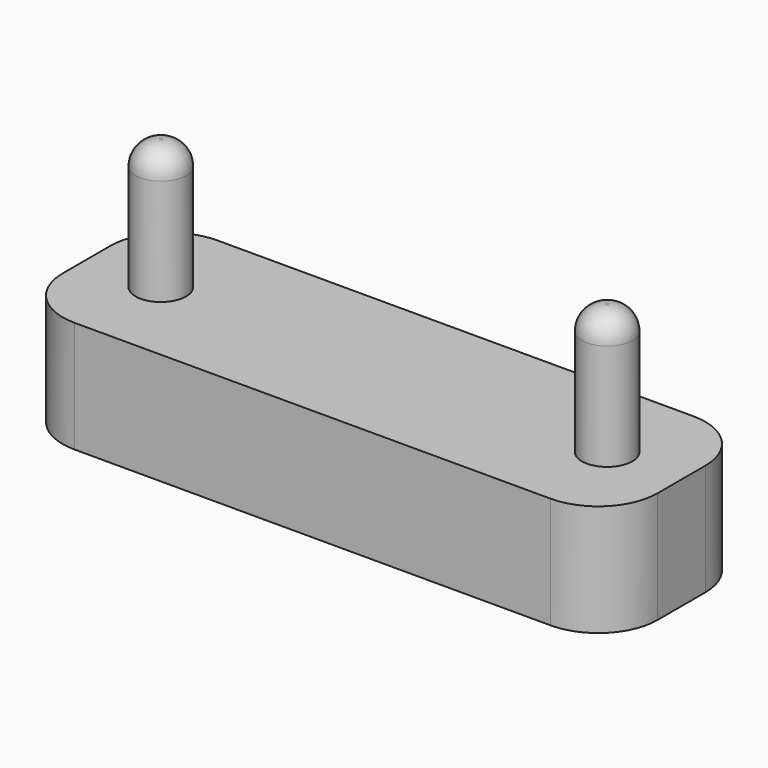
from build123d import *

# Parameters (mm, degrees)
F0_W     = 50.8
F0_H     = 15.24
F1_DEPTH = 9.525
F2_R     = 2.159
F3_DEPTH = 11.1125
F4_R     = 2.032
F5_R     = 5.08


with BuildPart() as f1:
    # F0 (on Top) → F1 (new body)
    with BuildSketch(Plane.XY):
        Rectangle(F0_W, F0_H)
    extrude(amount=F1_DEPTH)

    # F2 (on face) → F3 (join)
    with BuildSketch(Plane.XY.offset(9.525)):
        with Locations((-19.05, 0)):
            Circle(F2_R)
        with Locations((19.05, 0)):
            Circle(F2_R)
    extrude(amount=F3_DEPTH)

    # F4
    f4_edges = [f1.edges().sort_by_distance(p)[0] for p in [
        (-21.209, 0, 20.6375),
        (16.891, 0, 20.6375),
    ]]
    fillet(f4_edges, radius=F4_R)

    # F5
    f5_edges = [f1.edges().sort_by_distance(p)[0] for p in [
        (-25.4, -7.62, 4.7625),
        (25.4, -7.62, 4.7625),
        (25.4, 7.62, 4.7625),
        (-25.4, 7.62, 4.7625),
    ]]
    fillet(f5_edges, radius=F5_R)


solid = f1.part
